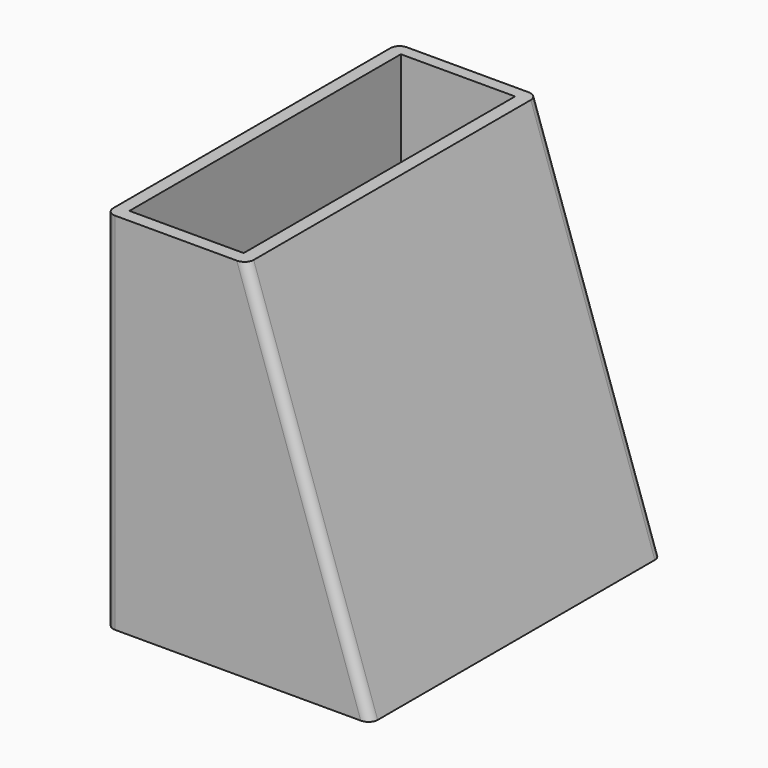
from build123d import *

# Parameters (mm, degrees)
PAD010_DEPTH            = 200
FILLET035_R             = 5
FILLET034_R             = 5
FILLET036_R             = 5
SKETCH016_W             = 62.643768
SKETCH016_H             = 186.051987
POCKET_DEPTH            = 200
BODY006_ROLL_ANGLE      = 90
BODY006_PLACEMENT_ANGLE = 180


with BuildPart() as part:
    # Sketch017 → Pad010 (new body)
    with BuildSketch(Plane.XY):
        Polygon((0, 0), (145, 0), (145, 200), (68, 200), align=None)
    extrude(amount=PAD010_DEPTH)

    # Fillet035
    fillet035_edges = [part.edges().sort_by_distance(p)[0] for p in [
        (34, 100, 0),
        (34, 100, 200),
    ]]
    fillet(fillet035_edges, radius=FILLET035_R)

    # Fillet034
    fillet034_edges = [part.edges().sort_by_distance(p)[0] for p in [
        (145, 100, 0),
    ]]
    fillet(fillet034_edges, radius=FILLET034_R)

    # Fillet036
    fillet036_edges = [part.edges().sort_by_distance(p)[0] for p in [
        (145, 100, 200),
    ]]
    fillet(fillet036_edges, radius=FILLET036_R)

    # Sketch016 (on Face10 of Fillet036) → Pocket (cut)
    with BuildSketch(Plane(origin=(0, 200, 0), x_dir=(-1, 0, 0), z_dir=(0, 1, 0))):
        with Locations((-106.638336, 100.319633)):
            Rectangle(SKETCH016_W, SKETCH016_H)
    extrude(amount=-POCKET_DEPTH, mode=Mode.SUBTRACT)


with BuildPart() as part_1:
    # Body006 roll: moved
    add(part.part.rotate(Axis((0, 0, 0), (1, 0, 0)), BODY006_ROLL_ANGLE))


with BuildPart() as part_2:
    # Body006 placement: moved
    add(part_1.part.moved(Location((-170, -92, -9))).rotate(Axis((-170, -92, -9), (0, 0, 1)), BODY006_PLACEMENT_ANGLE))


solid = part_2.part
